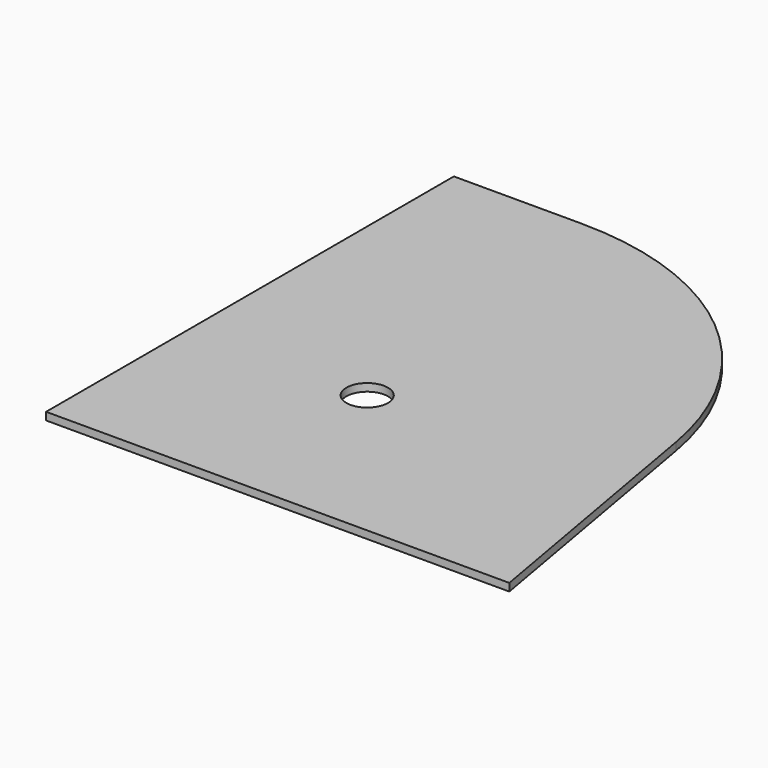
from build123d import *

# Parameters (mm, degrees)
F1_DEPTH = 3
F2_R     = 8.15
F3_DEPTH = 25


with BuildPart() as f1:
    # F0 (on Top) → F1 (new body)
    with BuildSketch(Plane.XY):
        with BuildLine():
            Line((0, 200), (0, 0))
            Line((0, 0), (181.761854, 0))
            Line((181.761854, 0), (163.252892, 104.96954))
            ThreePointArc((163.252892, 104.96954), (123.920575, 173.095111), (50, 200))
            Line((50, 200), (0, 200))
        make_face()
    extrude(amount=F1_DEPTH)

    # F2 (on face) → F3 (cut)
    with BuildSketch(Plane.XY.offset(3)):
        with Locations((70, 70)):
            Circle(F2_R)
    extrude(amount=-F3_DEPTH, mode=Mode.SUBTRACT)


solid = f1.part
